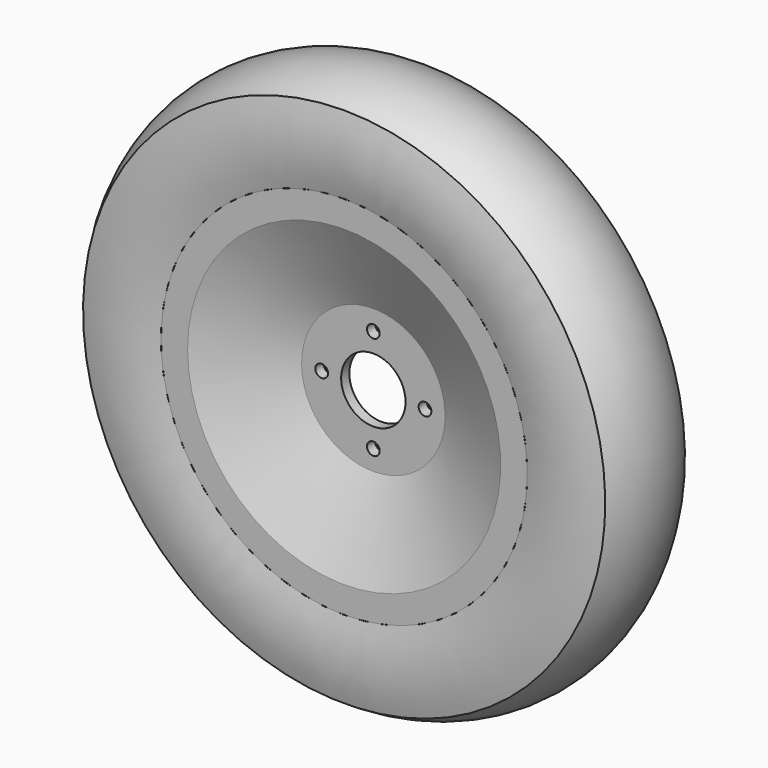
from build123d import *

# Parameters (mm, degrees)
F0_R     = 44.45
F0_R_2   = 3.937
F0_R_3   = 19.939
F1_DEPTH = 6.35


with BuildPart() as f1:
    # F0 (on Front) → F1 (new body)
    with BuildSketch(Plane.XZ):
        Circle(F0_R)
        with Locations((0, -32.004)):
            Circle(F0_R_2, mode=Mode.SUBTRACT)
        with Locations((-32.004, 0)):
            Circle(F0_R_2, mode=Mode.SUBTRACT)
        Circle(F0_R_3, mode=Mode.SUBTRACT)
        with Locations((32.004, 0)):
            Circle(F0_R_2, mode=Mode.SUBTRACT)
        with Locations((0, 32.004)):
            Circle(F0_R_2, mode=Mode.SUBTRACT)
    extrude(amount=F1_DEPTH)

    # F2 (on Top) → F3 (revolve)
    with BuildSketch(Plane.XY):
        with BuildLine():
            Line((-96.99625, -28.956), (-44.45, -6.35))
            Line((-44.45, -6.35), (-44.45, 0))
            Line((-44.45, 0), (-90.454532, 32.766))
            Line((-90.454532, 32.766), (-113.50625, 32.766))
            Line((-113.50625, 32.766), (-113.50625, 30.861))
            ThreePointArc((-113.50625, 30.861), (-84.55025, 1.905), (-113.50625, -27.051))
            Line((-113.50625, -27.051), (-113.50625, -28.956))
            Line((-113.50625, -28.956), (-96.99625, -28.956))
        make_face()
    revolve(axis=Axis((0, -10.680187, 0), (0, -1, 0)))


with BuildPart() as f5:
    # F4 (on Right) → F5 (revolve)
    with BuildSketch(Plane.YZ):
        with BuildLine():
            Line((-28.956, 113.50625), (-27.051, 113.50625))
            ThreePointArc((-27.051, 113.50625), (1.905, 84.55025), (30.861, 113.50625))
            Line((30.861, 113.50625), (32.766, 113.50625))
            ThreePointArc((32.766, 113.50625), (36.195, 137.63625), (32.766, 161.76625))
            ThreePointArc((32.766, 161.76625), (1.905, 171.45), (-28.956, 161.76625))
            ThreePointArc((-28.956, 161.76625), (-32.385, 137.63625), (-28.956, 113.50625))
        make_face()
    revolve(axis=Axis((0, -19.020818, 0), (0, -1, 0)))


solid = Compound([f1.part, f5.part])
